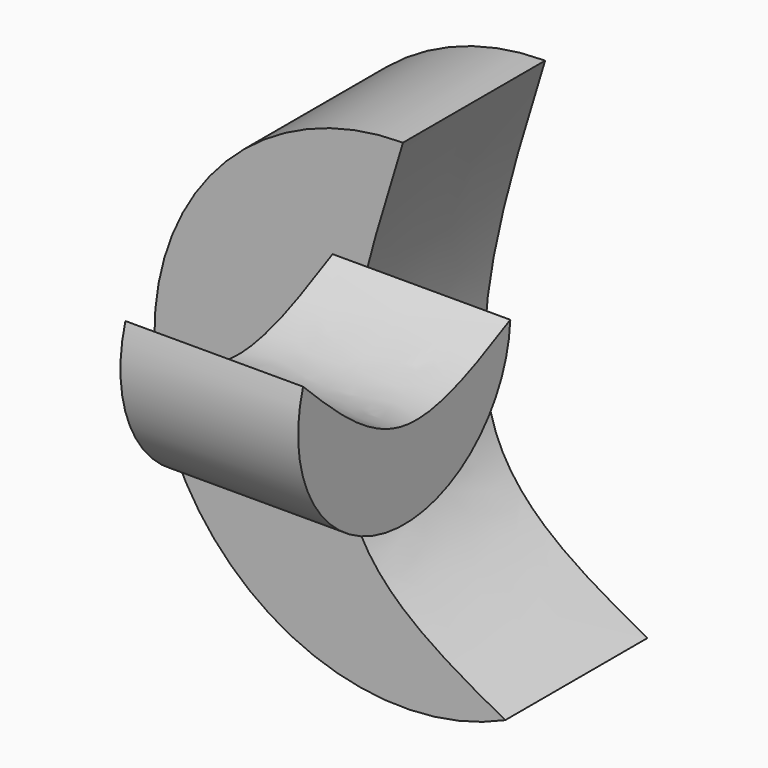
from build123d import *

# Parameters (mm, degrees)
F1_DEPTH = 25.4
F3_DEPTH = 25.4


with BuildPart() as f1:
    # F0 (on Front) → F1 (new body)
    with BuildSketch(Plane.XZ):
        with BuildLine():
            add(Edge.make_bspline(
                [(-6.2351627275, 48.8771246855), (-11.9666806332, 30.3211312778), (-22.0851096166, -2.428572316), (-0.8297734406, -14.0277358442), (8.3795179402, -19.0474061524)],
                knots=[0, 0, 0, 0, 0.5665817644, 1, 1, 1, 1], degree=3))
            ThreePointArc((-6.2351627275, 48.8771246855), (-40.9746603512, 5.8680377095), (8.3795179402, -19.0474061524))
        make_face()
    extrude(amount=F1_DEPTH)


with BuildPart() as f3:
    # F2 (on Right) → F3 (new body)
    with BuildSketch(Plane.YZ):
        with BuildLine():
            add(Edge.make_bspline(
                [(-45.7698516548, 45.1533645391), (-52.2267127965, 41.8707972103), (-65.4729200372, 35.1366323949), (-76.9265695807, 46.1470873614), (-82.797139883, 51.7904981971)],
                knots=[0, 0, 0, 0, 0.4874498054, 1, 1, 1, 1], degree=3))
            ThreePointArc((-82.797139883, 51.7904981971), (-68.0609500562, 27.3982426536), (-45.7698516548, 45.1533645391))
        make_face()
    extrude(amount=F3_DEPTH)


solid = Compound([f1.part, f3.part])
